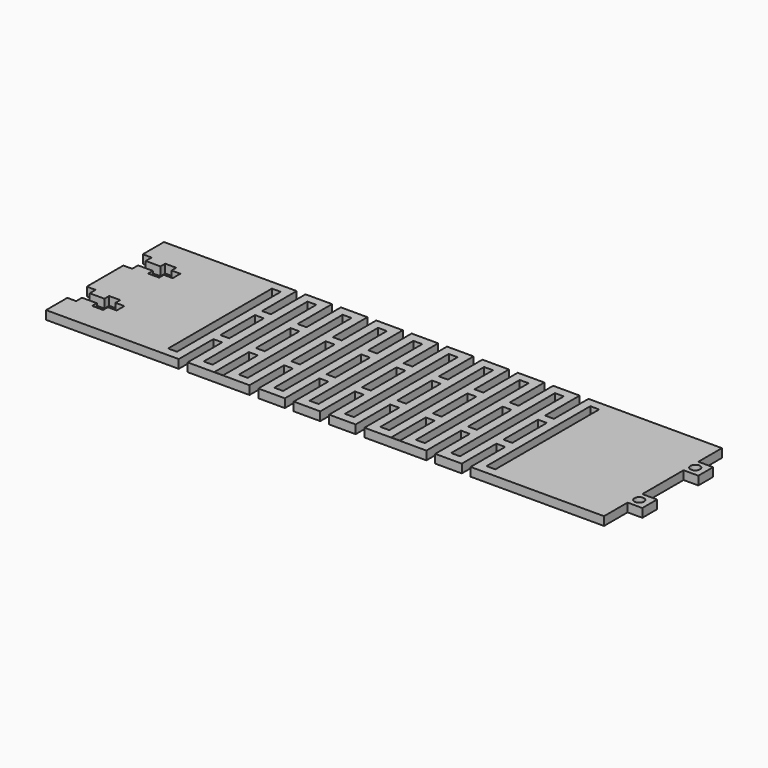
from build123d import *

# Parameters (mm, degrees)
F0_W     = 5.08
F0_H     = 6.35
F1_DEPTH = 2.9718
F2_W     = 3.048
F2_H     = 14.9098
F2_H_2   = 44.704
F2_R     = 1.651
F3_DEPTH = 25.4


with BuildPart() as f1:
    # F0 (on Top) → F1 (new body)
    with BuildSketch(Plane.XY):
        with Locations((194.818, 37.465)):
            Rectangle(F0_W, F0_H)
        with Locations((194.818, 13.335)):
            Rectangle(F0_W, F0_H)
        Polygon((0, 50.8), (0, 0), (192.278, 0), (192.278, 10.16), (192.278, 16.51), (192.278, 34.29), (192.278, 40.64), (192.278, 50.8), align=None)
    extrude(amount=F1_DEPTH)

    # F2 (on face) → F3 (intersect)
    with BuildSketch(Plane.XY.offset(2.9718)):
        Polygon((0, 50.8), (0, 41.656), (3.048, 41.656), (3.048, 39.116), (8.128, 39.116), (8.128, 41.148), (11.938, 41.148), (11.938, 39.116), (14.986, 39.116), (14.986, 35.814), (11.938, 35.814), (11.938, 33.782), (8.128, 33.782), (8.128, 35.814), (3.048, 35.814), (3.048, 33.274), (0, 33.274), (0, 17.526), (3.048, 17.526), (3.048, 14.986), (8.128, 14.986), (8.128, 17.018), (11.938, 17.018), (11.938, 14.986), (14.986, 14.986), (14.986, 11.684), (11.938, 11.684), (11.938, 9.652), (8.128, 9.652), (8.128, 11.684), (3.048, 11.684), (3.048, 9.144), (0, 9.144), (0, 0), (45.72, 0), (45.72, 14.9098), (48.768, 14.9098), (48.768, 0), (70.104, 0), (70.104, 14.9098), (73.152, 14.9098), (73.152, 0), (82.296, 0), (82.296, 14.9098), (85.344, 14.9098), (85.344, 0), (94.488, 0), (94.488, 14.9098), (97.536, 14.9098), (97.536, 0), (106.68, 0), (106.68, 14.9098), (109.728, 14.9098), (109.728, 0), (131.064, 0), (131.064, 14.9098), (134.112, 14.9098), (134.112, 0), (143.256, 0), (143.256, 14.9098), (146.304, 14.9098), (146.304, 0), (192.278, 0), (192.278, 10.16), (197.358, 10.16), (197.358, 16.51), (192.278, 16.51), (192.278, 34.29), (197.358, 34.29), (197.358, 40.64), (192.278, 40.64), (192.278, 50.8), (146.304, 50.8), (146.304, 35.8902), (143.256, 35.8902), (143.256, 50.8), (134.112, 50.8), (134.112, 35.8902), (131.064, 35.8902), (131.064, 50.8), (121.92, 50.8), (121.92, 35.9664), (118.872, 35.9664), (118.872, 50.8), (109.728, 50.8), (109.728, 35.8902), (106.68, 35.8902), (106.68, 50.8), (97.536, 50.8), (97.536, 35.8902), (94.488, 35.8902), (94.488, 50.8), (85.344, 50.8), (85.344, 35.8902), (82.296, 35.8902), (82.296, 50.8), (73.152, 50.8), (73.152, 35.8902), (70.104, 35.8902), (70.104, 50.8), (60.96, 50.8), (60.96, 35.9664), (57.912, 35.9664), (57.912, 50.8), (48.768, 50.8), (48.768, 35.8902), (45.72, 35.8902), (45.72, 50.8), align=None)
        with Locations((59.436, 7.5311)):
            Rectangle(F2_W, F2_H, mode=Mode.SUBTRACT)
        with Locations((41.148, 25.4)):
            Rectangle(F2_W, F2_H_2, mode=Mode.SUBTRACT)
        with Locations((47.244, 25.3873)):
            Rectangle(F2_W, F2_H, mode=Mode.SUBTRACT)
        with Locations((65.532, 25.4)):
            Rectangle(F2_W, F2_H_2, mode=Mode.SUBTRACT)
        with Locations((71.628, 25.3873)):
            Rectangle(F2_W, F2_H, mode=Mode.SUBTRACT)
        with Locations((77.724, 25.4)):
            Rectangle(F2_W, F2_H_2, mode=Mode.SUBTRACT)
        with Locations((83.82, 25.3873)):
            Rectangle(F2_W, F2_H, mode=Mode.SUBTRACT)
        with Locations((89.916, 25.4)):
            Rectangle(F2_W, F2_H_2, mode=Mode.SUBTRACT)
        with Locations((96.012, 25.3873)):
            Rectangle(F2_W, F2_H, mode=Mode.SUBTRACT)
        with Locations((120.396, 7.5311)):
            Rectangle(F2_W, F2_H, mode=Mode.SUBTRACT)
        with Locations((102.108, 25.4)):
            Rectangle(F2_W, F2_H_2, mode=Mode.SUBTRACT)
        with Locations((108.204, 25.3873)):
            Rectangle(F2_W, F2_H, mode=Mode.SUBTRACT)
        with Locations((114.3, 25.4)):
            Rectangle(F2_W, F2_H_2, mode=Mode.SUBTRACT)
        with Locations((132.588, 25.3873)):
            Rectangle(F2_W, F2_H, mode=Mode.SUBTRACT)
        with Locations((138.684, 25.4)):
            Rectangle(F2_W, F2_H_2, mode=Mode.SUBTRACT)
        with Locations((144.78, 25.3873)):
            Rectangle(F2_W, F2_H, mode=Mode.SUBTRACT)
        with Locations((193.7639, 13.335)):
            Circle(F2_R, mode=Mode.SUBTRACT)
        with Locations((150.876, 25.4)):
            Rectangle(F2_W, F2_H_2, mode=Mode.SUBTRACT)
        Polygon((54.864, 3.1242), (51.816, 3.1242), (51.816, 17.9324), (51.816, 32.8422), (51.816, 47.8282), (54.864, 47.8282), align=None, mode=Mode.SUBTRACT)
        with Locations((59.436, 25.4635)):
            Rectangle(F2_W, F2_H, mode=Mode.SUBTRACT)
        with Locations((120.396, 25.4635)):
            Rectangle(F2_W, F2_H, mode=Mode.SUBTRACT)
        with Locations((126.492, 25.4762)):
            Rectangle(F2_W, F2_H_2, mode=Mode.SUBTRACT)
        with Locations((193.7639, 37.465)):
            Circle(F2_R, mode=Mode.SUBTRACT)
    extrude(amount=-F3_DEPTH, mode=Mode.INTERSECT)


solid = f1.part
